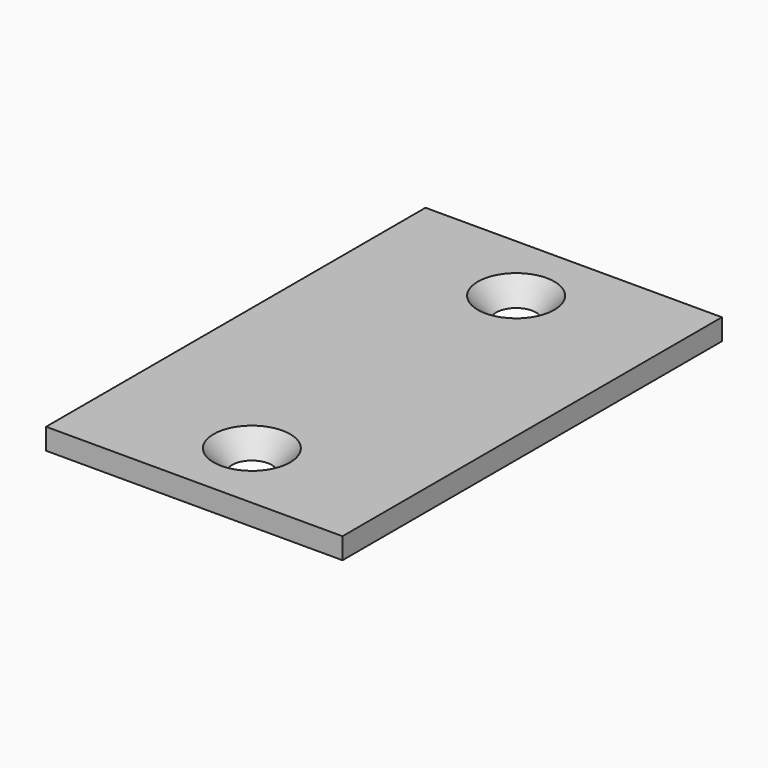
from build123d import *

# Parameters (mm, degrees)
F0_W           = 22.225
F0_H           = 35.56
F1_DEPTH       = 1.5875
F3_D           = 2.9464
F3_CSINK_D     = 5.7404
F3_CSINK_ANGLE = 82


with BuildPart() as f1:
    # F0 (on Top) → F1 (new body)
    with BuildSketch(Plane.XY):
        Rectangle(F0_W, F0_H)
    extrude(amount=F1_DEPTH)

    # F3 (through all)
    with Locations(Plane.XY.offset(1.5875)):
        with Locations((0, 12.3825), (0, -12.3825)):
            CounterSinkHole(F3_D / 2, F3_CSINK_D / 2, counter_sink_angle=F3_CSINK_ANGLE)


solid = f1.part
